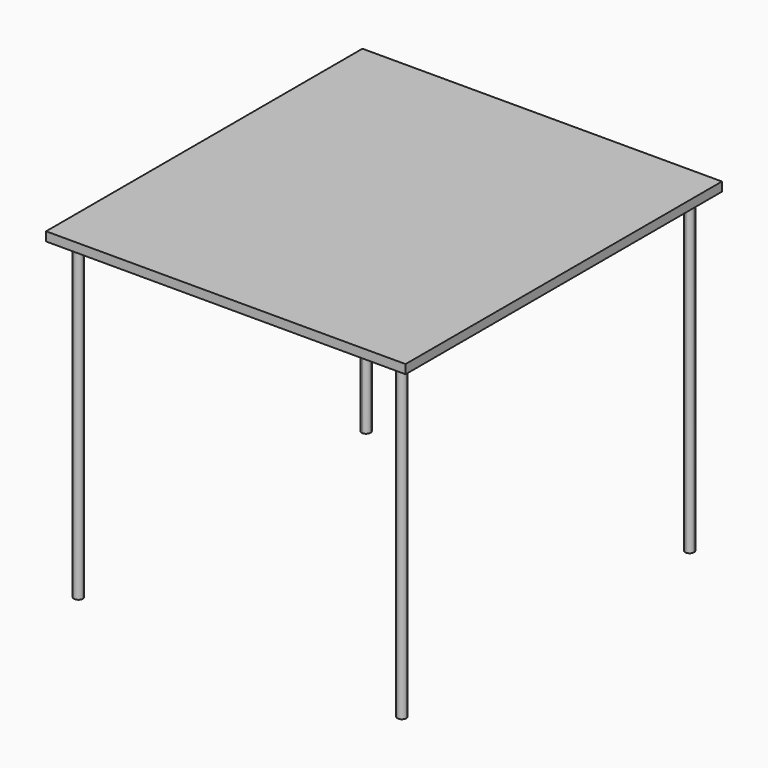
from build123d import *

# Parameters (mm, degrees)
F0_W     = 1016
F0_H     = 1117.6
F1_DEPTH = 25.4
F2_DEPTH = 914.4


with BuildPart() as f1:
    # F0 (on Top) → F1 (new body)
    with BuildSketch(Plane.XY):
        Rectangle(F0_W, F0_H)
        with BuildLine():
            ThreePointArc((-457.2, 495.3), (-466.1802561211, 516.9802561211), (-444.5, 508))
            Line((-444.5, 508), (444.5, 508))
            ThreePointArc((444.5, 508), (457.2, 520.7), (469.9, 508))
            ThreePointArc((469.9, 508), (466.1802561211, 499.0197438789), (457.2, 495.3))
            Line((457.2, 495.3), (457.2, -495.3))
            ThreePointArc((457.2, -495.3), (466.1802561211, -499.0197438789), (469.9, -508))
            ThreePointArc((469.9, -508), (457.2, -520.7), (444.5, -508))
            Line((444.5, -508), (-444.5, -508))
            ThreePointArc((-444.5, -508), (-466.1802561211, -516.9802561211), (-457.2, -495.3))
            Line((-457.2, -495.3), (-457.2, 495.3))
        make_face(mode=Mode.SUBTRACT)
        with BuildLine():
            Line((444.5, 508), (-444.5, 508))
            ThreePointArc((-444.5, 508), (-448.2197438789, 499.0197438789), (-457.2, 495.3))
            Line((-457.2, 495.3), (-457.2, -495.3))
            ThreePointArc((-457.2, -495.3), (-448.2197438789, -499.0197438789), (-444.5, -508))
            Line((-444.5, -508), (444.5, -508))
            ThreePointArc((444.5, -508), (448.2197438789, -499.0197438789), (457.2, -495.3))
            Line((457.2, -495.3), (457.2, 495.3))
            ThreePointArc((457.2, 495.3), (448.2197438789, 499.0197438789), (444.5, 508))
        make_face()
    extrude(amount=-F1_DEPTH)

    # F0 (on Top) → F2 (join)
    with BuildSketch(Plane.XY):
        with BuildLine():
            Line((-457.2, -508), (-457.2, -495.3))
            ThreePointArc((-457.2, -495.3), (-466.1802561211, -516.9802561211), (-444.5, -508))
            Line((-444.5, -508), (-457.2, -508))
        make_face()
        with BuildLine():
            ThreePointArc((-444.5, -508), (-448.2197438789, -499.0197438789), (-457.2, -495.3))
            Line((-457.2, -495.3), (-457.2, -508))
            Line((-457.2, -508), (-444.5, -508))
        make_face()
        with BuildLine():
            ThreePointArc((469.9, -508), (466.1802561211, -499.0197438789), (457.2, -495.3))
            Line((457.2, -495.3), (457.2, -508))
            Line((457.2, -508), (444.5, -508))
            ThreePointArc((444.5, -508), (457.2, -520.7), (469.9, -508))
        make_face()
        with BuildLine():
            Line((457.2, -508), (457.2, -495.3))
            ThreePointArc((457.2, -495.3), (448.2197438789, -499.0197438789), (444.5, -508))
            Line((444.5, -508), (457.2, -508))
        make_face()
        with BuildLine():
            ThreePointArc((469.9, 508), (457.2, 520.7), (444.5, 508))
            Line((444.5, 508), (457.2, 508))
            Line((457.2, 508), (457.2, 495.3))
            ThreePointArc((457.2, 495.3), (466.1802561211, 499.0197438789), (469.9, 508))
        make_face()
        with BuildLine():
            Line((457.2, 508), (444.5, 508))
            ThreePointArc((444.5, 508), (448.2197438789, 499.0197438789), (457.2, 495.3))
            Line((457.2, 495.3), (457.2, 508))
        make_face()
        with BuildLine():
            Line((-457.2, 508), (-444.5, 508))
            ThreePointArc((-444.5, 508), (-466.1802561211, 516.9802561211), (-457.2, 495.3))
            Line((-457.2, 495.3), (-457.2, 508))
        make_face()
        with BuildLine():
            ThreePointArc((-457.2, 495.3), (-448.2197438789, 499.0197438789), (-444.5, 508))
            Line((-444.5, 508), (-457.2, 508))
            Line((-457.2, 508), (-457.2, 495.3))
        make_face()
    extrude(amount=-F2_DEPTH)


solid = f1.part
